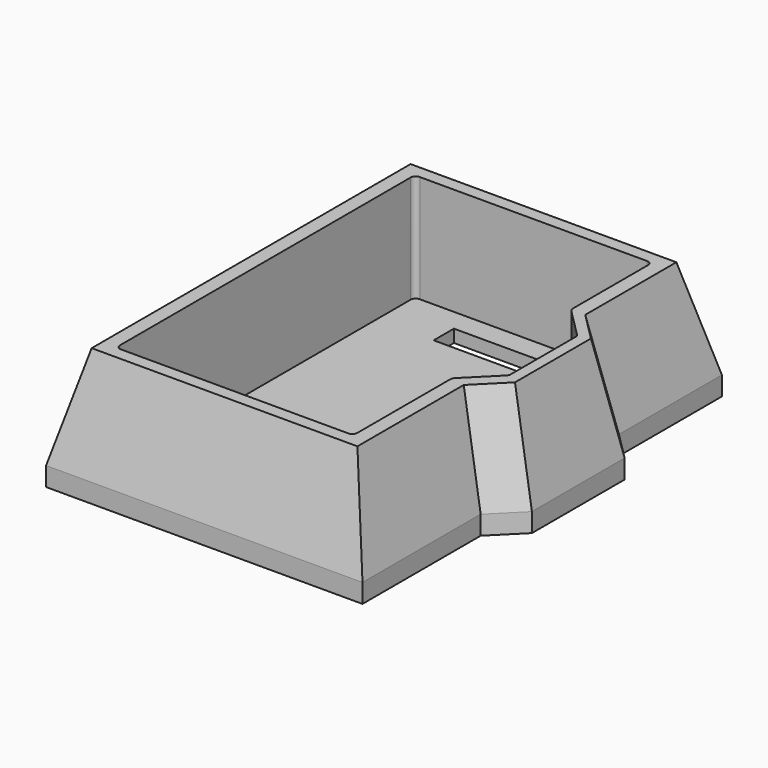
from build123d import *

# Parameters (mm, degrees)
F5_DEPTH = 3
F7_DEPTH = 17
F8_W     = 15
F8_H     = 4
F8_W_2   = 3.5
F8_H_2   = 10.5
F9_DEPTH = 2.001


with BuildPart() as f3:
    # F0 (on Top) → F3 section 0
    with BuildSketch(Plane.XY):
        Polygon((-4, 67), (-4, -4), (46, -4), (46, 19.3431457505), (50.5, 23.8431457505), (50.5, 42.1568542495), (46, 46.6568542495), (46, 67), align=None)
    # F2 (on offset) → F3 section 1
    with BuildSketch(Plane.XY.offset(16)):
        Polygon((0, 63), (0, 0), (42, 0), (42, 21), (46.5, 25.5), (46.5, 40.5), (42, 45), (42, 63), align=None)
    loft()

    # F4 (on face) → F5 (join)
    with BuildSketch(Plane(origin=(0, 0, 0), x_dir=(1, 0, 0), z_dir=(0, 0, -1))):
        Polygon((46, 4), (-4, 4), (-4, -67), (46, -67), (46, -46.6568542495), (50.5, -42.1568542495), (50.5, -23.8431457505), (46, -19.3431457505), align=None)
    extrude(amount=F5_DEPTH)

    # F6 (on face) → F7 (cut)
    with BuildSketch(Plane.XY.offset(16)):
        with BuildLine():
            Line((38.95, 61), (3.05, 61))
            ThreePointArc((3.05, 61), (2.4843145751, 60.7656854249), (2.25, 60.2))
            Line((2.25, 60.2), (2.25, 2.8))
            ThreePointArc((2.25, 2.8), (2.4843145751, 2.2343145751), (3.05, 2))
            Line((3.05, 2), (38.95, 2))
            ThreePointArc((38.95, 2), (39.5156854249, 2.2343145751), (39.75, 2.8))
            Line((39.75, 2.8), (39.75, 21.1686291501))
            ThreePointArc((39.75, 21.1686291501), (39.810896374, 21.474775896), (39.9843145751, 21.7343145751))
            Line((39.9843145751, 21.7343145751), (44.5156854249, 26.2656854249))
            ThreePointArc((44.5156854249, 26.2656854249), (44.689103626, 26.525224104), (44.75, 26.8313708499))
            Line((44.75, 26.8313708499), (44.75, 39.6686291501))
            ThreePointArc((44.75, 39.6686291501), (44.689103626, 39.974775896), (44.5156854249, 40.2343145751))
            Line((44.5156854249, 40.2343145751), (39.9843145751, 44.7656854249))
            ThreePointArc((39.9843145751, 44.7656854249), (39.810896374, 45.025224104), (39.75, 45.3313708499))
            Line((39.75, 45.3313708499), (39.75, 60.2))
            ThreePointArc((39.75, 60.2), (39.5156854249, 60.7656854249), (38.95, 61))
        make_face()
    extrude(amount=-F7_DEPTH, mode=Mode.SUBTRACT)

    # F8 (on face) → F9 (cut, through all)
    with BuildSketch(Plane.XY.offset(-1)):
        with Locations((18.75, 55.5)):
            Rectangle(F8_W, F8_H)
        with Locations((41, 33.75)):
            Rectangle(F8_W_2, F8_H_2)
    extrude(amount=-F9_DEPTH, mode=Mode.SUBTRACT)


solid = f3.part
